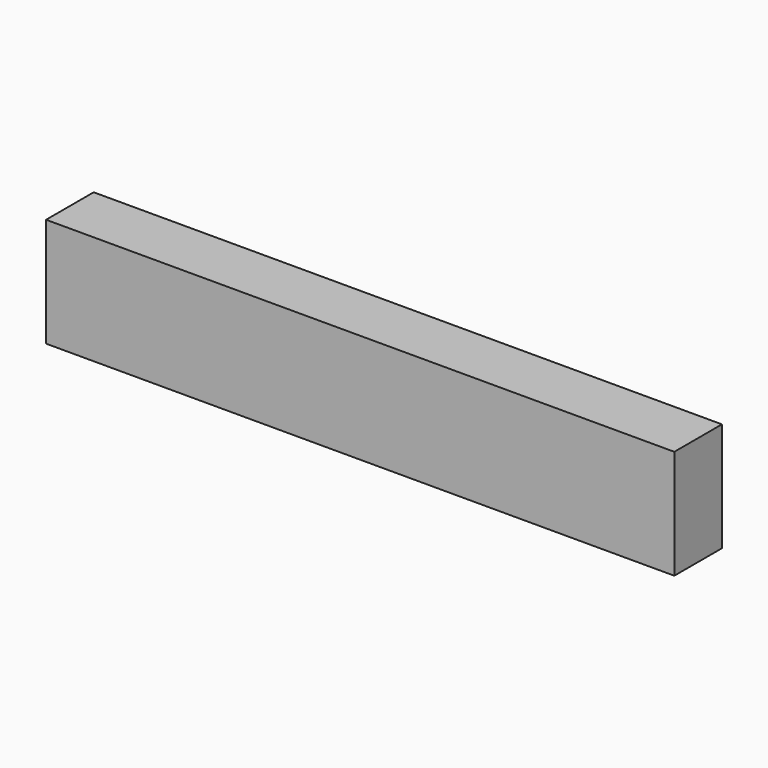
from build123d import *

# Parameters (mm, degrees)
SKETCH_W  = 190
SKETCH_H  = 33
PAD_DEPTH = 18


with BuildPart() as part:
    # Sketch → Pad (new body)
    with BuildSketch(Plane.XZ):
        with Locations((-95, 16.5)):
            Rectangle(SKETCH_W, SKETCH_H)
    extrude(amount=PAD_DEPTH)


solid = part.part
